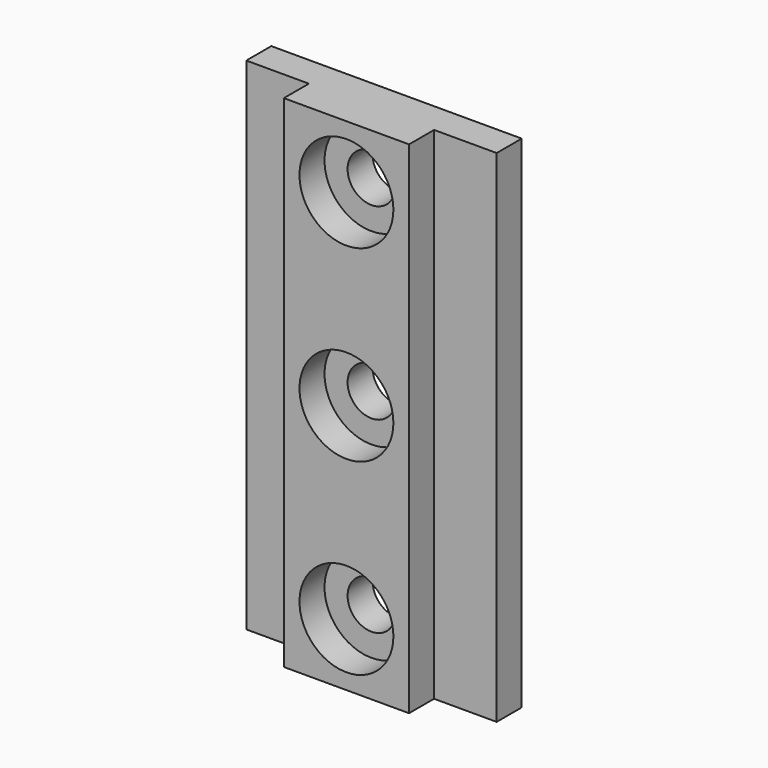
from build123d import *

# Parameters (mm, degrees)
F0_W     = 25.4
F0_H     = 50.8
F1_DEPTH = 6.35
F2_W     = 6.35
F2_H     = 50.8
F3_DEPTH = 3.175
F4_R     = 2.4257
F5_DEPTH = 6.351
F6_R     = 4.7625
F7_DEPTH = 3.175


with BuildPart() as f1:
    # F0 (on Front) → F1 (new body)
    with BuildSketch(Plane.XZ):
        Rectangle(F0_W, F0_H)
    extrude(amount=F1_DEPTH)

    # F2 (on face) → F3 (cut)
    with BuildSketch(Plane.XZ.offset(6.35)):
        with Locations((-9.525, 0)):
            Rectangle(F2_W, F2_H)
        with Locations((9.525, 0)):
            Rectangle(F2_W, F2_H)
    extrude(amount=-F3_DEPTH, mode=Mode.SUBTRACT)

    # F4 (on face) → F5 (cut, through all)
    with BuildSketch(Plane.XZ.offset(6.35)):
        Circle(F4_R)
        with Locations((0, 19.05)):
            Circle(F4_R)
        with Locations((0, -19.05)):
            Circle(F4_R)
    extrude(amount=-F5_DEPTH, mode=Mode.SUBTRACT)

    # F6 (on face) → F7 (cut)
    with BuildSketch(Plane.XZ.offset(6.35)):
        with Locations((0, 19.05)):
            Circle(F6_R)
        Circle(F6_R)
        with Locations((0, -19.05)):
            Circle(F6_R)
    extrude(amount=-F7_DEPTH, mode=Mode.SUBTRACT)


with BuildPart() as f8_1:
    # F8: copy of F1
    add(f1.part)


solid = Compound([f1.part, f8_1.part])
